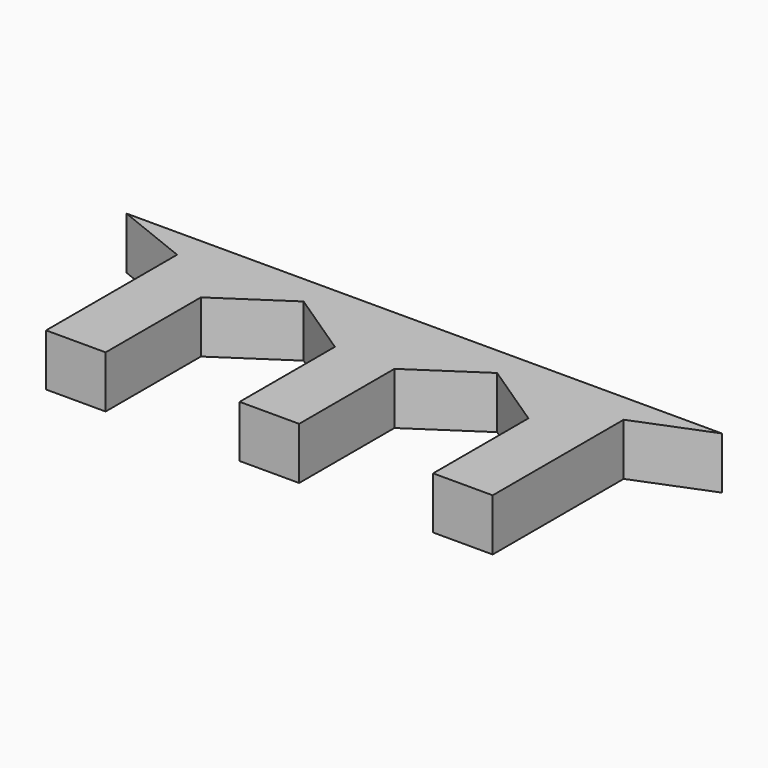
from build123d import *

# Parameters (mm, degrees)
F1_DEPTH = 4.445


with BuildPart() as f1:
    # F0 (on Top) → F1 (new body)
    with BuildSketch(Plane.XY):
        Polygon((-8.06645, 28.256932), (-13.14645, 28.256932), (-19.49645, 28.256932), (-13.14645, 25.716932), (-13.14645, 11.746932), (-8.06645, 11.746932), (-8.06645, 21.906932), (-2.35145, 25.716932), (3.36355, 21.906932), (3.36355, 11.746932), (8.44355, 11.746932), (8.44355, 21.906932), (14.15855, 25.716932), (19.87355, 21.906932), (19.87355, 11.746932), (24.95355, 11.746932), (24.95355, 25.716932), (31.30355, 28.256932), (24.95355, 28.256932), (19.87355, 28.256932), (7.17355, 28.256932), (2.09355, 28.256932), align=None)
    extrude(amount=F1_DEPTH)


solid = f1.part
